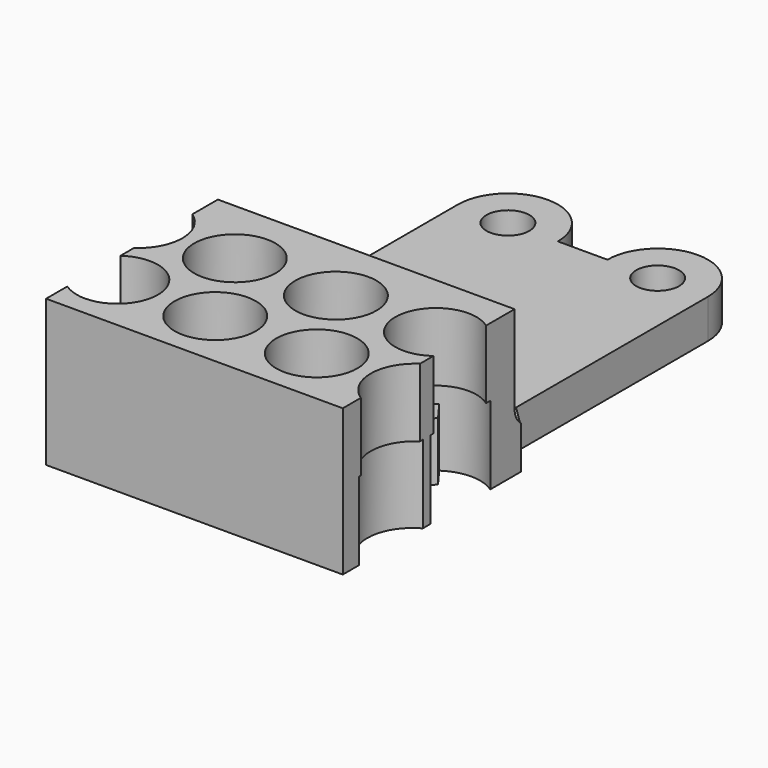
from build123d import *

# Parameters (mm, degrees)
BOX_W         = 15.2
BOX_H         = 18
BOX_DEPTH     = 10
PAD003_DEPTH  = 3
SKETCH002_R   = 2.08
PAD002_DEPTH  = 3.5
SKETCH001_R   = 1.1
SKETCH001_R_2 = 2.32
PAD001_DEPTH  = 4
CHAMFER_SIZE  = 1.16
FILLET_R      = 1


with BuildPart() as obj1:
    # Box → Box (new body)
    with BuildSketch(Plane(origin=(0, 11, 2), x_dir=(1, 0, 0), z_dir=(0, 0, 1))):
        with Locations((7.6, 9)):
            Rectangle(BOX_W, BOX_H)
    extrude(amount=BOX_DEPTH)


with BuildPart() as pad003:
    # Sketch003 → Pad003 (new body)
    with BuildSketch(Plane.XY):
        Polygon((2.378666, 9.538552), (3.141544, 8.484614), (2.605246, 8.030906), (1.603856, 8.879459), align=None)
        Polygon((6.78436, 8.940759), (7.81191, 8.046443), (8.278705, 8.496499), (7.513181, 9.568461), align=None)
        Polygon((11.639661, 9.077468), (12.904972, 8.018862), (13.299574, 8.474274), (12.400975, 9.695749), align=None)
        Polygon((12.104583, 1.976359), (13.30563, 0.90266), (13.898616, 1.728947), (12.545185, 2.537632), align=None)
        Polygon((8.700089, 1.748501), (7.31743, 2.508724), (6.930422, 2.025162), (8.137034, 1.029802), align=None)
        Polygon((2.273056, 2.567461), (3.508846, 1.882398), (2.897784, 1.211809), (1.893881, 2.05588), align=None)
    extrude(amount=PAD003_DEPTH)


with BuildPart() as pad002:
    # Sketch002 → Pad002 (new body)
    with BuildSketch(Plane.XY.offset(4)):
        with BuildLine():
            Line((0, 0), (15.2, 0))
            Line((15.2, 1.15374), (15.2, 0))
            ThreePointArc((15.2, 4.942574), (14.191377, 3.048157), (15.2, 1.15374))
            Line((15.2, 5.803221), (15.2, 4.942574))
            ThreePointArc((15.2, 9.17326), (11.900529, 7.488241), (15.2, 5.803221))
            Line((15.2, 9.17326), (15.2, 11))
            Line((0, 11), (15.2, 11))
            Line((0, 9.37218), (0, 11))
            ThreePointArc((0, 5.625638), (0.983556, 7.498909), (0, 9.37218))
            Line((0, 4.762372), (0, 5.625638))
            ThreePointArc((0, 1.365976), (3.281052, 3.064174), (0, 4.762372))
            Line((0, 0), (0, 1.365976))
        make_face()
        with Locations((3.71, 7.45)):
            Circle(SKETCH002_R, mode=Mode.SUBTRACT)
        with Locations((8.886504, 7.45)):
            Circle(SKETCH002_R, mode=Mode.SUBTRACT)
        with Locations((11.417808, 3.064059)):
            Circle(SKETCH002_R, mode=Mode.SUBTRACT)
        with Locations((6.227885, 3.050071)):
            Circle(SKETCH002_R, mode=Mode.SUBTRACT)
    extrude(amount=PAD002_DEPTH)


with BuildPart() as cut:
    # Sketch001 → Pad001 (new body)
    with BuildSketch(Plane.XY):
        with BuildLine():
            Line((1.167192, 12.607396), (1.167192, 24.915267))
            ThreePointArc((6.287975, 24.916916), (3.726759, 27.476896), (1.167192, 24.915267))
            Line((6.287975, 24.916916), (8.825715, 24.916916))
            ThreePointArc((13.968192, 24.934157), (11.38834, 27.49472), (8.825715, 24.916916))
            Line((13.968192, 12.572419), (13.968192, 24.934157))
            Line((15.2, 12.572419), (13.968192, 12.572419))
            Line((15.2, 9.446953), (15.2, 12.572419))
            ThreePointArc((15.2, 9.446953), (11.577912, 7.526805), (15.2, 5.606658))
            Line((15.2, 5.606658), (15.2, 5.125616))
            ThreePointArc((15.2, 5.125616), (13.98768, 3.087125), (15.2, 1.048634))
            Line((15.2, 1.048634), (15.2, 0))
            Line((0, 0), (15.2, 0))
            Line((0, 0), (0, 1.066252))
            ThreePointArc((0, 1.066252), (3.486123, 3.071883), (0, 5.077515))
            Line((0, 5.077515), (0, 5.551994))
            ThreePointArc((0, 5.551994), (1.087704, 7.51766), (0, 9.483327))
            Line((0, 9.483327), (0, 12.607396))
            Line((0, 12.607396), (1.167192, 12.607396))
        make_face()
        with Locations((3.727584, 24.916504)):
            Circle(SKETCH001_R, mode=Mode.SUBTRACT)
        with Locations((11.392031, 24.923481)):
            Circle(SKETCH001_R, mode=Mode.SUBTRACT)
        with Locations((3.71, 7.45)):
            Circle(SKETCH001_R_2, mode=Mode.SUBTRACT)
        with Locations((8.886504, 7.45)):
            Circle(SKETCH001_R_2, mode=Mode.SUBTRACT)
        with Locations((11.417808, 3.064059)):
            Circle(SKETCH001_R_2, mode=Mode.SUBTRACT)
        with Locations((6.227885, 3.050071)):
            Circle(SKETCH001_R_2, mode=Mode.SUBTRACT)
    extrude(amount=PAD001_DEPTH)

    # Chamfer
    chamfer_edges = [cut.edges().sort_by_distance(p)[0] for p in [
        (0, 12.607396, 2),
        (15.2, 12.572419, 2),
    ]]
    chamfer(chamfer_edges, length=CHAMFER_SIZE)

    # Fusion: union Pad003, Pad002
    add(pad003.part)
    add(pad002.part)

    # Cut: cut obj1
    add(obj1.part, mode=Mode.SUBTRACT)


with BuildPart() as motorholder:
    # Fillet base: copy of Cut
    add(cut.part)

    # Fillet
    fillet_edges = [motorholder.edges().sort_by_distance(p)[0] for p in [
        (7.6, 11, 2),
    ]]
    fillet(fillet_edges, radius=FILLET_R)

    # Fusion001: union Cut
    add(cut.part)


solid = motorholder.part
